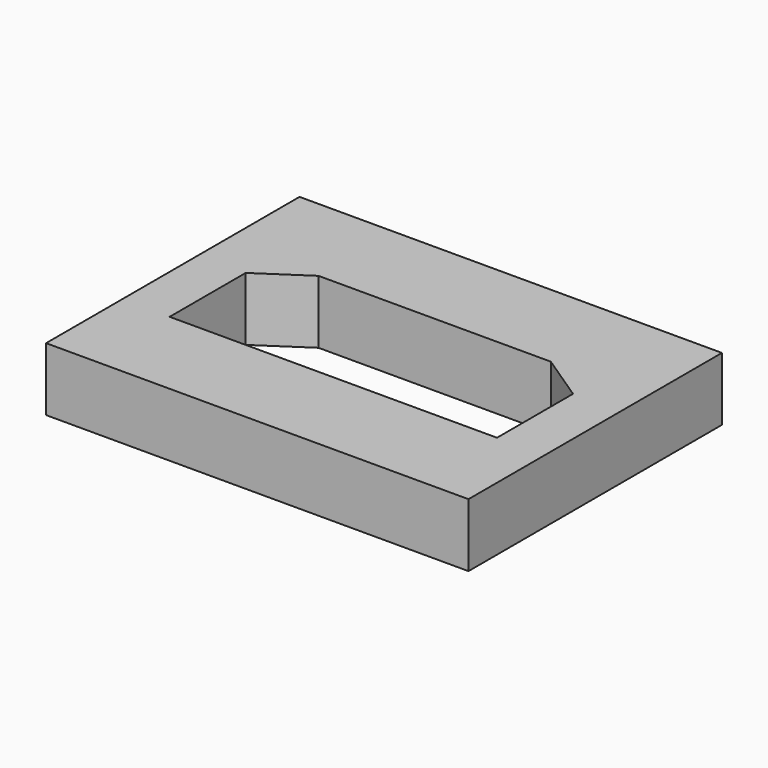
from build123d import *

# Parameters (mm, degrees)
F0_W     = 20
F0_H     = 15
F1_DEPTH = 3
F2_W     = 15.5
F2_H     = 6
F3_DEPTH = 25
F4_SIZE2 = 1.5
F4_SIZE  = 2.25


with BuildPart() as f1:
    # F0 (on Top) → F1 (new body)
    with BuildSketch(Plane.XY):
        Rectangle(F0_W, F0_H)
    extrude(amount=F1_DEPTH)

    # F2 (on face) → F3 (cut)
    with BuildSketch(Plane.XY.offset(3)):
        Rectangle(F2_W, F2_H)
    extrude(amount=-F3_DEPTH, mode=Mode.SUBTRACT)

    # F4
    f4_edges = [f1.edges().sort_by_distance(p)[0] for p in [
        (-7.75, 3, 1.5),
        (7.75, 3, 1.5),
    ]]
    f4_side = f1.faces().sort_by_distance((0, 3, 1.5))[0]
    chamfer(f4_edges, length=F4_SIZE, length2=F4_SIZE2, reference=f4_side)


solid = f1.part
